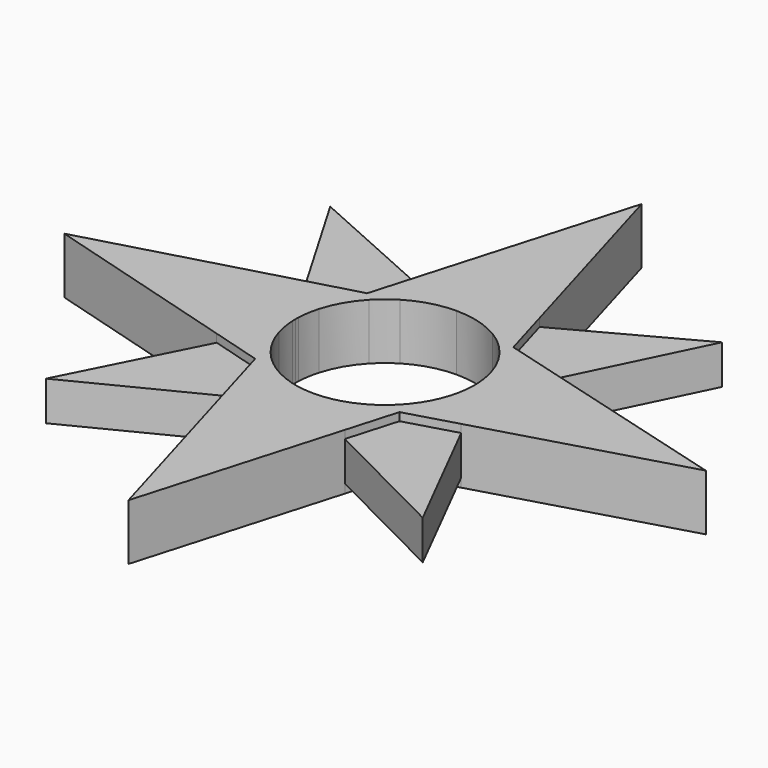
from build123d import *

# Parameters (mm, degrees)
F1_DEPTH = 7
F2_START = 1.1
F2_DEPTH = 4.9


with BuildPart() as f1:
    # F0 (on Top) → F1 (new body)
    with BuildSketch(Plane.XY):
        Polygon((-7.4115242199, 14.465439185), (0, 11.15), (0, 40), align=None)
        Polygon((0, 40), (0, 11.15), (7.2415005954, 15.0512132379), align=None)
        Polygon((-40, 0), (-11.6101847588, 0), (-15.5867241284, 6.8052006492), align=None)
        Polygon((-15.2432164393, -7.1857707793), (-11.6101847588, 0), (-40, 0), align=None)
        Polygon((0, -40), (0, -11.6101847588), (-7.1857707793, -15.2432164393), align=None)
        Polygon((7.1857707793, -15.2432164393), (0, -11.6101847588), (0, -40), align=None)
        Polygon((40, 0), (11.6101847588, 0), (15.2432164393, -7.1857707793), align=None)
        Polygon((15.0074665088, 6.9666687107), (11.6101847588, 0), (40, 0), align=None)
        with BuildLine():
            ThreePointArc((-5.7679465413, 9.5421849016), (-2.9939220387, 10.7405274929), (0, 11.15))
            Line((0, 11.15), (-7.4115242199, 14.465439185))
            Line((-7.4115242199, 14.465439185), (-9.1110031263, 8.6103078786))
            Line((-9.1110031263, 8.6103078786), (-5.7679465413, 9.5421849016))
        make_face()
        Polygon((10.7080552853, 3.1080624202), (11.6101847588, 0), (15.0074665088, 6.9666687107), (9.1110031263, 8.6103078786), align=None)
        Polygon((-10.7080552332, -3.1080625996), (-11.6101847588, 0), (-15.2432164393, -7.1857707793), (-8.9983671347, -8.9983671347), align=None)
        Polygon((-7.1857707793, -15.2432164393), (0, -11.6101847588), (-3.1080626541, -10.7080552174), (-8.9983671347, -8.9983671347), align=None)
        Polygon((7.1857707793, -15.2432164393), (8.9983671347, -8.9983671347), (3.1080623688, -10.7080553002), (0, -11.6101847588), align=None)
        Polygon((15.2432164393, -7.1857707793), (11.6101847588, 0), (10.708055209, -3.1080626829), (8.9983671347, -8.9983671347), align=None)
        with BuildLine():
            Line((7.2415005954, 15.0512132379), (0, 11.15))
            ThreePointArc((0, 11.15), (2.9939220387, 10.7405274929), (5.7679465413, 9.5421849016))
            Line((5.7679465413, 9.5421849016), (8.8026408844, 8.6962638535))
            Line((8.8026408844, 8.6962638535), (9.02027697, 8.9228822539))
            Line((9.02027697, 8.9228822539), (7.2415005954, 15.0512132379))
        make_face()
        Polygon((-15.5867241284, 6.8052006492), (-11.6101847588, 0), (-10.7080552075, 3.108062688), (-9.1374538419, 8.5191785256), (-9.2095170056, 8.5828471347), align=None)
        with BuildLine():
            ThreePointArc((-10.7080552075, 3.108062688), (-9.6869346026, 5.5213945707), (-8.1307635844, 7.6297564532))
            Line((-8.1307635844, 7.6297564532), (-9.1374538419, 8.5191785256))
            Line((-9.1374538419, 8.5191785256), (-10.7080552075, 3.108062688))
        make_face()
        with BuildLine():
            ThreePointArc((5.7679465413, 9.5421849016), (6.9155239519, 8.7463151367), (7.9546122238, 7.813235205))
            Line((7.9546122238, 7.813235205), (8.8026408844, 8.6962638535))
            Line((8.8026408844, 8.6962638535), (5.7679465413, 9.5421849016))
        make_face()
        with BuildLine():
            ThreePointArc((-8.1307635844, 7.6297564532), (-7.0148329583, 8.6668690176), (-5.7679465413, 9.5421849016))
            Line((-5.7679465413, 9.5421849016), (-9.1110031263, 8.6103078786))
            Line((-9.1110031263, 8.6103078786), (-9.1374538419, 8.5191785256))
            Line((-9.1374538419, 8.5191785256), (-8.1307635844, 7.6297564532))
        make_face()
        with BuildLine():
            ThreePointArc((7.9546122238, 7.813235205), (9.6233285495, 5.631522674), (10.7080552853, 3.1080624202))
            Line((10.7080552853, 3.1080624202), (9.1110031263, 8.6103078786))
            Line((9.1110031263, 8.6103078786), (8.8026408844, 8.6962638535))
            Line((8.8026408844, 8.6962638535), (7.9546122238, 7.813235205))
        make_face()
        with BuildLine():
            Line((8.9983671347, -8.9983671347), (7.8842406102, -7.8842406102))
            ThreePointArc((7.8842406102, -7.8842406102), (5.6746069068, -9.5979860624), (3.1080623688, -10.7080553002))
            Line((3.1080623688, -10.7080553002), (8.9983671347, -8.9983671347))
        make_face()
        with BuildLine():
            Line((8.9983671347, -8.9983671347), (10.708055209, -3.1080626829))
            ThreePointArc((10.708055209, -3.1080626829), (9.5979859792, -5.6746070475), (7.8842406102, -7.8842406102))
            Line((7.8842406102, -7.8842406102), (8.9983671347, -8.9983671347))
        make_face()
        with BuildLine():
            Line((-8.9983671347, -8.9983671347), (-3.1080626541, -10.7080552174))
            ThreePointArc((-3.1080626541, -10.7080552174), (-5.6746070346, -9.5979859868), (-7.8842406102, -7.8842406102))
            Line((-7.8842406102, -7.8842406102), (-8.9983671347, -8.9983671347))
        make_face()
        with BuildLine():
            ThreePointArc((-7.8842406102, -7.8842406102), (-9.5979860012, -5.6746070102), (-10.7080552332, -3.1080625996))
            Line((-10.7080552332, -3.1080625996), (-8.9983671347, -8.9983671347))
            Line((-8.9983671347, -8.9983671347), (-7.8842406102, -7.8842406102))
        make_face()
        with BuildLine():
            ThreePointArc((-10.7080552332, -3.1080625996), (-11.0034097906, -1.8020746324), (-11.1400855815, -0.4700991772))
            Line((-11.1400855815, -0.4700991772), (-11.6101847588, 0))
            Line((-11.6101847588, 0), (-10.7080552332, -3.1080625996))
        make_face()
        with BuildLine():
            ThreePointArc((-11.1400855815, -0.4700991772), (-11.1475211198, -0.2351018567), (-11.15, 0))
            Line((-11.15, 0), (-11.6101847588, 0))
            Line((-11.6101847588, 0), (-11.1400855815, -0.4700991772))
        make_face()
        with BuildLine():
            Line((-11.6101847588, 0), (-11.15, 0))
            ThreePointArc((-11.15, 0), (-11.147721628, 0.22539411), (-11.1408874431, 0.4506961068))
            Line((-11.1408874431, 0.4506961068), (-11.6101847588, 0))
        make_face()
        with BuildLine():
            Line((-11.6101847588, 0), (-11.1408874431, 0.4506961068))
            ThreePointArc((-11.1408874431, 0.4506961068), (-11.0049749216, 1.7924918343), (-10.7080552075, 3.108062688))
            Line((-10.7080552075, 3.108062688), (-11.6101847588, 0))
        make_face()
        with BuildLine():
            Line((11.6101847588, 0), (11.1400855815, -0.4700991772))
            ThreePointArc((11.1400855815, -0.4700991772), (11.0034097836, -1.8020746752), (10.708055209, -3.1080626829))
            Line((10.708055209, -3.1080626829), (11.6101847588, 0))
        make_face()
        with BuildLine():
            Line((11.6101847588, 0), (11.15, 0))
            ThreePointArc((11.15, 0), (11.1475211198, -0.2351018567), (11.1400855815, -0.4700991772))
            Line((11.1400855815, -0.4700991772), (11.6101847588, 0))
        make_face()
        with BuildLine():
            ThreePointArc((11.1408874431, 0.4506961068), (11.147721628, 0.22539411), (11.15, 0))
            Line((11.15, 0), (11.6101847588, 0))
            Line((11.6101847588, 0), (11.1408874431, 0.4506961068))
        make_face()
        with BuildLine():
            ThreePointArc((10.7080552853, 3.1080624202), (11.004974944, 1.7924916967), (11.1408874431, 0.4506961068))
            Line((11.1408874431, 0.4506961068), (11.6101847588, 0))
            Line((11.6101847588, 0), (10.7080552853, 3.1080624202))
        make_face()
        Polygon((8.8026408844, 8.6962638535), (9.1110031263, 8.6103078786), (9.02027697, 8.9228822539), align=None)
        with BuildLine():
            Line((0, -11.6101847588), (-0.4700991772, -11.1400855815))
            ThreePointArc((-0.4700991772, -11.1400855815), (-1.8020746604, -11.003409786), (-3.1080626541, -10.7080552174))
            Line((-3.1080626541, -10.7080552174), (0, -11.6101847588))
        make_face()
        with BuildLine():
            ThreePointArc((0.4700991772, -11.1400855815), (0.2351018567, -11.1475211198), (0, -11.15))
            Line((0, -11.15), (0, -11.6101847588))
            Line((0, -11.6101847588), (0.4700991772, -11.1400855815))
        make_face()
        with BuildLine():
            ThreePointArc((3.1080623688, -10.7080553002), (1.8020745138, -11.00340981), (0.4700991772, -11.1400855815))
            Line((0.4700991772, -11.1400855815), (0, -11.6101847588))
            Line((0, -11.6101847588), (3.1080623688, -10.7080553002))
        make_face()
        with BuildLine():
            Line((0, -11.6101847588), (0, -11.15))
            ThreePointArc((0, -11.15), (-0.2351018567, -11.1475211198), (-0.4700991772, -11.1400855815))
            Line((-0.4700991772, -11.1400855815), (0, -11.6101847588))
        make_face()
    extrude(amount=F1_DEPTH)

    # F0 (on Top) → F2 (join)
    with BuildSketch(Plane.XY.offset(F2_START)):
        Polygon((-9.2095170056, 8.5828471347), (-24.540269553, 22.1277380295), (-15.5867241284, 6.8052006492), align=None)
        Polygon((-9.1110031263, 8.6103078786), (-7.4115242199, 14.465439185), (-24.540269553, 22.1277380295), (-9.2095170056, 8.5828471347), align=None)
        Polygon((23.1218005728, 23.6064064161), (7.2415005954, 15.0512132379), (9.02027697, 8.9228822539), align=None)
        Polygon((9.1110031263, 8.6103078786), (15.0074665088, 6.9666687107), (23.1218005728, 23.6064064161), (9.02027697, 8.9228822539), align=None)
        Polygon((23.482761909, -23.482761909), (15.2432164393, -7.1857707793), (8.9983671347, -8.9983671347), align=None)
        Polygon((23.482761909, -23.482761909), (8.9983671347, -8.9983671347), (7.1857707793, -15.2432164393), align=None)
        Polygon((-23.482761909, -23.482761909), (-7.1857707793, -15.2432164393), (-8.9983671347, -8.9983671347), align=None)
        Polygon((-8.9983671347, -8.9983671347), (-15.2432164393, -7.1857707793), (-23.482761909, -23.482761909), align=None)
    extrude(amount=F2_DEPTH)


solid = f1.part
